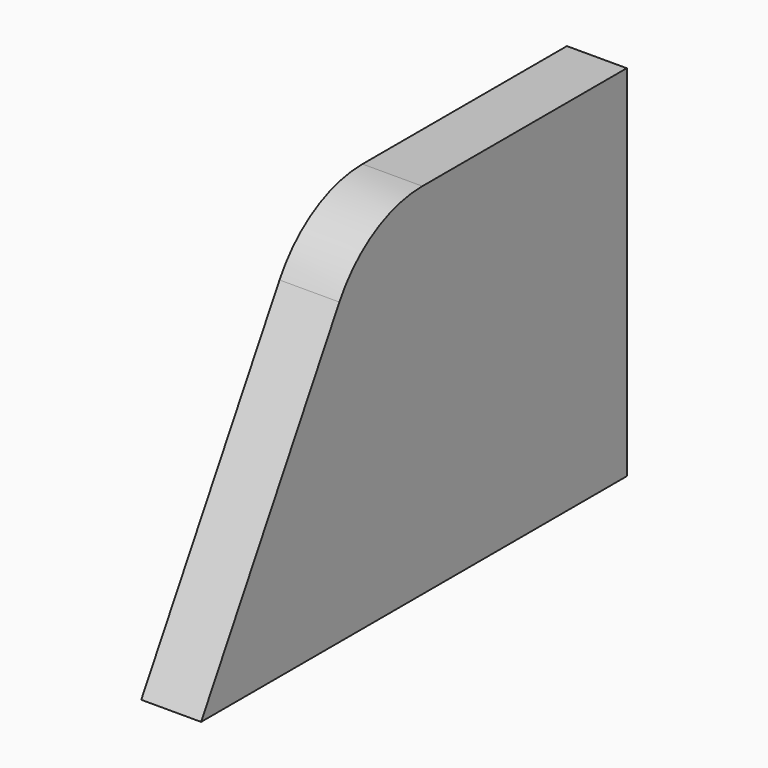
from build123d import *

# Parameters (mm, degrees)
F1_DEPTH = 20
F2_R     = 40
F5_D     = 8
F5_DEPTH = 10
F5_TIP   = 2.4034424761
F6_D     = 8
F6_DEPTH = 30
F6_TIP   = 2.4034424761


with BuildPart() as f1:
    # F0 (on Right) → F1 (new body)
    with BuildSketch(Plane.YZ):
        Polygon((-177.735026919, 0), (0, 0), (0, 100), (-120, 100), align=None)
        Polygon((-120, 100), (0, 100), (0, 120), (-108.4529946162, 120), align=None)
    extrude(amount=F1_DEPTH)

    # F2
    f2_edges = [f1.edges().sort_by_distance(p)[0] for p in [
        (10, -108.452995, 120),
    ]]
    fillet(f2_edges, radius=F2_R)

    # F5
    with Locations(Plane(origin=(0, 0, 0), x_dir=(0, -1, 0), z_dir=(-1, 0, 0))):
        with Locations((35, 89), (105, 89), (9, 15), (9, 105)):
            Hole(F5_D / 2, depth=F5_DEPTH)
            with Locations((0, 0, -(F5_DEPTH + F5_TIP / 2))):  # 118° drill point
                Cone(0, F5_D / 2, F5_TIP, mode=Mode.SUBTRACT)

    # F6
    with Locations(Plane(origin=(0, 0, 0), x_dir=(1, 0, 0), z_dir=(0, 0, -1))):
        with Locations((11, 120), (11, 50)):
            Hole(F6_D / 2, depth=F6_DEPTH)
            with Locations((0, 0, -(F6_DEPTH + F6_TIP / 2))):  # 118° drill point
                Cone(0, F6_D / 2, F6_TIP, mode=Mode.SUBTRACT)


solid = f1.part
